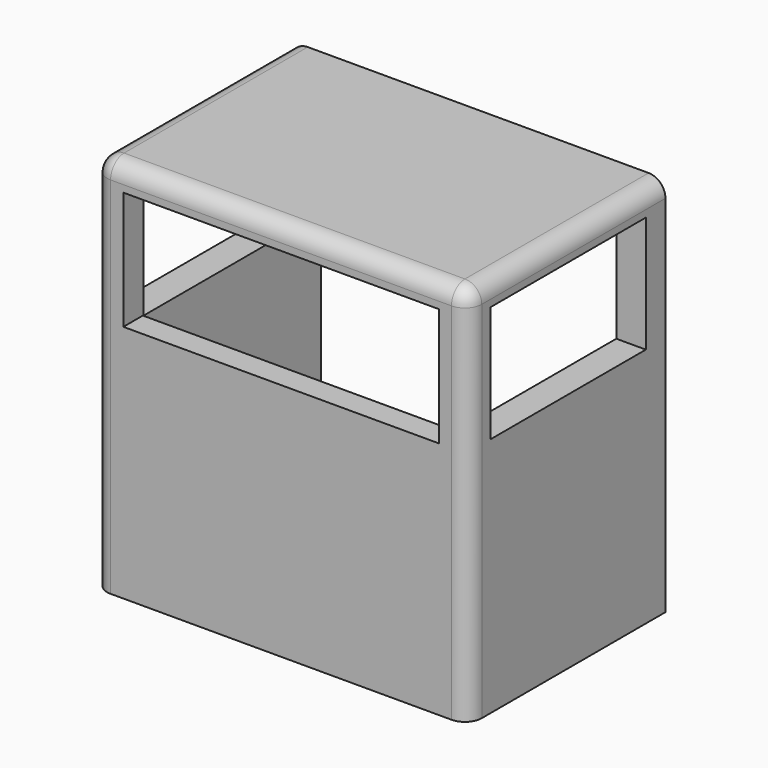
from build123d import *

# Parameters (mm, degrees)
F0_W     = 113.10765706
F0_H     = 115.1223033667
F1_DEPTH = 74.422
F2_W     = 95.2637083828
F2_H     = 35.6879141182
F3_DEPTH = 127.762
F4_W     = 58.8790695183
F4_H     = 35.6879141182
F5_DEPTH = 78.486
F6_W     = 58.6911616847
F6_H     = 35.1123027503
F7_DEPTH = 72.898
F8_W     = 95.1198078692
F8_H     = 64.1806852072
F9_DEPTH = 67.056
F10_R    = 5.08
F11_R    = 5.08


with BuildPart() as f1:
    # F0 (on Front) → F1 (new body)
    with BuildSketch(Plane.XZ):
        with Locations((5.9000151232, 3.5975724459)):
            Rectangle(F0_W, F0_H)
    extrude(amount=-F1_DEPTH)

    # F2 (on Front) → F3 (cut)
    with BuildSketch(Plane.XZ):
        with Locations((5.9000197798, 36.1196221784)):
            Rectangle(F2_W, F2_H)
    extrude(amount=-F3_DEPTH, mode=Mode.SUBTRACT)

    # F4 (on Right) → F5 (cut)
    with BuildSketch(Plane.YZ):
        with Locations((36.9658360723, 36.1196221784)):
            Rectangle(F4_W, F4_H)
    extrude(amount=-F5_DEPTH, mode=Mode.SUBTRACT)

    # F6 (on face) → F7 (cut)
    with BuildSketch(Plane.YZ.offset(62.4538436532)):
        with Locations((37.6759679057, 36.4074278623)):
            Rectangle(F6_W, F6_H)
    extrude(amount=-F7_DEPTH, mode=Mode.SUBTRACT)

    # F8 (on face) → F9 (cut)
    with BuildSketch(Plane(origin=(0, 74.422, 0), x_dir=(-1, 0, 0), z_dir=(0, 1, 0))):
        with Locations((-5.9719700366, -13.8146774843)):
            Rectangle(F8_W, F8_H)
    extrude(amount=-F9_DEPTH, mode=Mode.SUBTRACT)

    # F10
    f10_edges = [f1.edges().sort_by_distance(p)[0] for p in [
        (-50.653813, 0, 3.597572),
    ]]
    fillet(f10_edges, radius=F10_R)

    # F11
    f11_edges = [f1.edges().sort_by_distance(p)[0] for p in [
        (62.453844, 0, 3.597572),
        (8.440015, 0, 61.158724),
        (62.453844, 37.211, 61.158724),
    ]]
    fillet(f11_edges, radius=F11_R)


solid = f1.part
